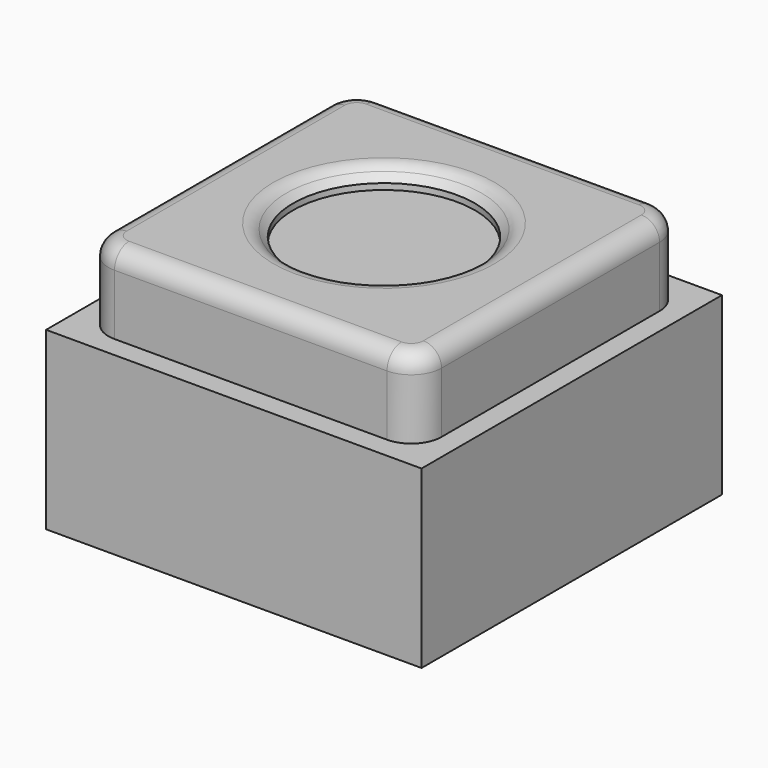
from build123d import *

# Parameters (mm, degrees)
SKETCH033_W     = 12.4
SKETCH033_H     = 12.4
PAD015_DEPTH    = 5.8
PAD016_DEPTH    = 2.6
SKETCH035_R     = 3
POCKET010_DEPTH = 0.6
SKETCH036_R     = 4
POCKET011_DEPTH = 2
CHAMFER_SIZE    = 0.4
FILLET_R        = 0.6


with BuildPart() as part:
    # Sketch033 → Pad015 (new body)
    with BuildSketch(Plane.XY):
        Rectangle(SKETCH033_W, SKETCH033_H)
    extrude(amount=PAD015_DEPTH)

    # Sketch034 (on Face6 of Pad015) → Pad016 (join)
    with BuildSketch(Plane.XY.offset(5.8)):
        with BuildLine():
            Line((-4.5, 5.5), (4.5, 5.5))
            ThreePointArc((5.5, 4.5), (5.207107, 5.207107), (4.5, 5.5))
            Line((5.5, 4.5), (5.5, -4.5))
            ThreePointArc((4.5, -5.5), (5.207107, -5.207107), (5.5, -4.5))
            Line((4.5, -5.5), (-4.5, -5.5))
            ThreePointArc((-5.5, -4.5), (-5.207107, -5.207107), (-4.5, -5.5))
            Line((-5.5, -4.5), (-5.5, 4.5))
            ThreePointArc((-4.5, 5.5), (-5.207107, 5.207107), (-5.5, 4.5))
        make_face()
    extrude(amount=PAD016_DEPTH)

    # Sketch035 (on Face15 of Pad016) → Pocket010 (cut)
    with BuildSketch(Plane.XY.offset(8.4)):
        Circle(SKETCH035_R)
    extrude(amount=-POCKET010_DEPTH, mode=Mode.SUBTRACT)

    # Sketch036 (on Face4 of Pocket010) → Pocket011 (cut)
    with BuildSketch(Plane(origin=(0, 0, 0), x_dir=(1, 0, 0), z_dir=(0, 0, -1))):
        Circle(SKETCH036_R)
    extrude(amount=-POCKET011_DEPTH, mode=Mode.SUBTRACT)

    # Chamfer
    chamfer_edges = [part.edges().sort_by_distance(p)[0] for p in [
        (-3, 0, 8.4),
    ]]
    chamfer(chamfer_edges, length=CHAMFER_SIZE)

    # Fillet
    fillet_edges = [part.edges().sort_by_distance(p)[0] for p in [
        (0, -5.5, 8.4),
        (-5.207107, -5.207107, 8.4),
        (-5.5, 0, 8.4),
        (-5.207107, 5.207107, 8.4),
        (0, 5.5, 8.4),
        (-3.4, 0, 8.4),
        (5.207107, -5.207107, 8.4),
        (5.207107, 5.207107, 8.4),
        (5.5, 0, 8.4),
    ]]
    fillet(fillet_edges, radius=FILLET_R)


with BuildPart() as part_1:
    # Body004 placement: moved
    add(part.part.moved(Location((-4.6, -39.7, 15.8))))


solid = part_1.part
